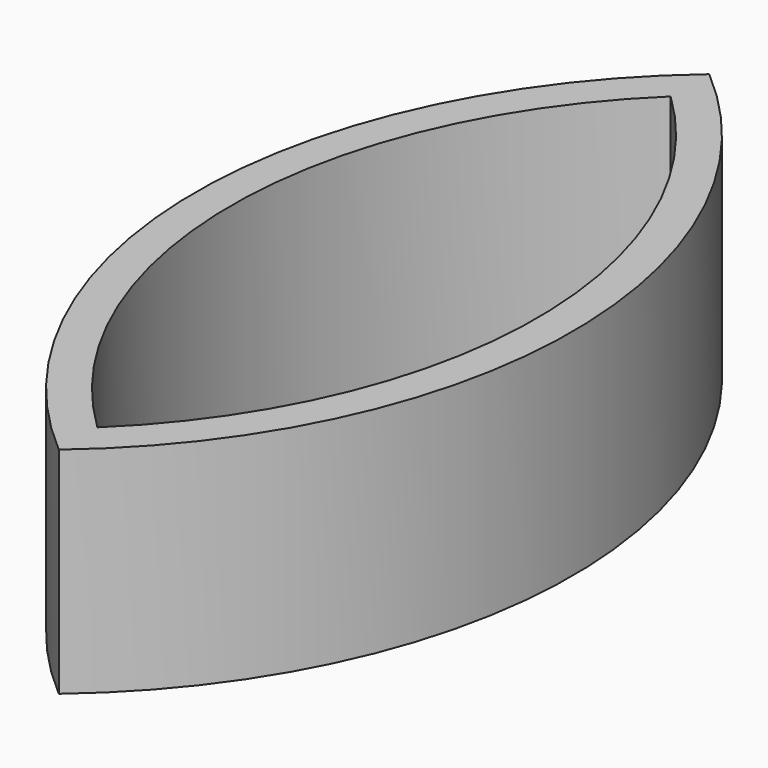
from build123d import *

# Parameters (mm, degrees)
F1_DEPTH = 6


with BuildPart() as f1:
    # F0 (on Top) → F1 (new body)
    with BuildSketch(Plane.XY):
        with BuildLine():
            ThreePointArc((1.551725, -11.345651), (6.814029, 0), (1.551725, 11.345651))
            ThreePointArc((1.551725, 11.345651), (-3.710579, 0), (1.551725, -11.345651))
        make_face()
        with BuildLine():
            ThreePointArc((1.551725, 10), (5.814029, 0), (1.551725, -10))
            ThreePointArc((1.551725, -10), (-2.710579, 0), (1.551725, 10))
        make_face(mode=Mode.SUBTRACT)
    extrude(amount=F1_DEPTH)


solid = f1.part
